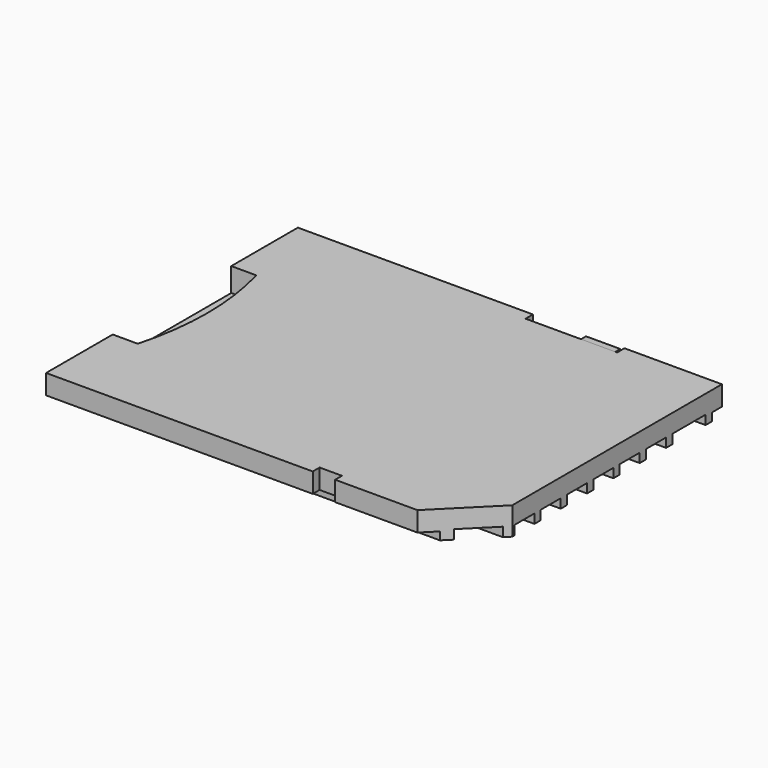
from build123d import *

# Parameters (mm, degrees)
SKETCH_W        = 32.2
SKETCH_H        = 23.9
PAD_DEPTH       = 2.1
CHAMFER_SIZE    = 4
SKETCH001_W     = 6.95
SKETCH001_H     = 0.7
POCKET_DEPTH    = 5
SKETCH002_W     = 32.2
SKETCH002_H     = 0.95
POCKET001_DEPTH = 0.6
SKETCH003_W     = 1.7
SKETCH003_H     = 0.65
POCKET002_DEPTH = 5
SKETCH004_W     = 5.75
SKETCH004_H     = 1.9
SKETCH004_W_2   = 7.9
SKETCH004_H_2   = 2.05
SKETCH004_H_3   = 3.15
POCKET003_DEPTH = 0.7
POCKET004_DEPTH = 1.8
SKETCH006_W     = 11.25
SKETCH006_H     = 0.85
POCKET005_DEPTH = 15
BOX_W           = 2.6
BOX_H           = 0.8
BOX_DEPTH       = 1.25
BOX001_W        = 5
BOX001_H        = 1.9
BOX001_DEPTH    = 0.2
ARRAY_Y_COUNT   = 6
ARRAY_Y_PITCH   = 2.5
BOX002_W        = 5
BOX002_H        = 2.1
BOX002_DEPTH    = 0.2
BOX003_W        = 5
BOX003_H        = 1.45
BOX003_DEPTH    = 0.2
BOX004_W        = 5
BOX004_H        = 1.45
BOX004_DEPTH    = 0.2


with BuildPart() as pocket005:
    # Sketch → Pad (new body)
    with BuildSketch(Plane.XY):
        Rectangle(SKETCH_W, SKETCH_H)
    extrude(amount=PAD_DEPTH)

    # Chamfer
    chamfer_edges = [pocket005.edges().sort_by_distance(p)[0] for p in [
        (16.1, -11.95, 1.05),
    ]]
    chamfer(chamfer_edges, length=CHAMFER_SIZE)

    # Sketch001 → Pocket (cut)
    with BuildSketch(Plane.XY.offset(2.1)):
        with Locations((5.225, 11.6)):
            Rectangle(SKETCH001_W, SKETCH001_H)
    extrude(amount=-POCKET_DEPTH, mode=Mode.SUBTRACT)

    # Sketch002 → Pocket001 (cut)
    with BuildSketch(Plane(origin=(0, 0, 0), x_dir=(1, 0, 0), z_dir=(0, 0, -1))):
        with Locations((0, 11.475)):
            Rectangle(SKETCH002_W, SKETCH002_H)
        with Locations((0, -11.475)):
            Rectangle(SKETCH002_W, SKETCH002_H)
    extrude(amount=-POCKET001_DEPTH, mode=Mode.SUBTRACT)

    # Sketch003 → Pocket002 (cut)
    with BuildSketch(Plane.XY.offset(2.1)):
        with Locations((5, -11.625)):
            Rectangle(SKETCH003_W, SKETCH003_H)
    extrude(amount=-POCKET002_DEPTH, mode=Mode.SUBTRACT)

    # Sketch004 → Pocket003 (cut)
    with BuildSketch(Plane(origin=(0, 0, 0), x_dir=(1, 0, 0), z_dir=(0, 0, -1))):
        with Locations((13.225, -5.7)):
            Rectangle(SKETCH004_W, SKETCH004_H)
        with Locations((13.225, -3.2)):
            Rectangle(SKETCH004_W, SKETCH004_H)
        with Locations((13.225, -0.7)):
            Rectangle(SKETCH004_W, SKETCH004_H)
        with Locations((13.225, 1.8)):
            Rectangle(SKETCH004_W, SKETCH004_H)
        with Locations((13.225, 4.3)):
            Rectangle(SKETCH004_W, SKETCH004_H)
        with Locations((13.225, 6.8)):
            Rectangle(SKETCH004_W, SKETCH004_H)
        with Locations((12.15, 9.375)):
            Rectangle(SKETCH004_W_2, SKETCH004_H_2)
        with Locations((13.225, -8.825)):
            Rectangle(SKETCH004_W, SKETCH004_H_3)
    extrude(amount=-POCKET003_DEPTH, mode=Mode.SUBTRACT)

    # Sketch005 → Pocket004 (cut)
    with BuildSketch(Plane.XY.offset(2.1)):
        with BuildLine():
            ThreePointArc((-14.2, -5.625), (-13.432631, 0), (-14.2, 5.625))
            Line((-16.1, 5.625), (-14.2, 5.625))
            Line((-16.1, 5.625), (-16.1, -5.625))
            Line((-16.1, -5.625), (-14.2, -5.625))
        make_face()
    extrude(amount=-POCKET004_DEPTH, mode=Mode.SUBTRACT)

    # Sketch006 → Pocket005 (cut)
    with BuildSketch(Plane(origin=(-16.1, 0, 0), x_dir=(0, -1, 0), z_dir=(-1, 0, 0))):
        with Locations((0, 0.725)):
            Rectangle(SKETCH006_W, SKETCH006_H)
    extrude(amount=-POCKET005_DEPTH, mode=Mode.SUBTRACT)


with BuildPart() as cube:
    # Box → Box (new body)
    with BuildSketch(Plane(origin=(5.9, 11, 0.8), x_dir=(1, 0, 0), z_dir=(0, 0, 1))):
        with Locations((1.3, 0.4)):
            Rectangle(BOX_W, BOX_H)
    extrude(amount=BOX_DEPTH)


with BuildPart() as array:
    # Box001 → Box001 (new body)
    with BuildSketch(Plane(origin=(10.35, -7.75, 0.68), x_dir=(1, 0, 0), z_dir=(0, 0, 1))):
        with Locations((2.5, 0.95)):
            Rectangle(BOX001_W, BOX001_H)
    extrude(amount=BOX001_DEPTH)

    # Array Y: Array ×6


with BuildPart() as array_1:
    add(array.part)
    with Locations(*[(0, i * ARRAY_Y_PITCH, 0) for i in range(1, ARRAY_Y_COUNT)]):
        add(array.part)


with BuildPart() as cube002:
    # Box002 → Box002 (new body)
    with BuildSketch(Plane(origin=(8.2, -10.4, 0.68), x_dir=(1, 0, 0), z_dir=(0, 0, 1))):
        with Locations((2.5, 1.05)):
            Rectangle(BOX002_W, BOX002_H)
    extrude(amount=BOX002_DEPTH)


with BuildPart() as cube003:
    # Box003 → Box003 (new body)
    with BuildSketch(Plane(origin=(10.35, 7.3, 0.68), x_dir=(1, 0, 0), z_dir=(0, 0, 1))):
        with Locations((2.5, 0.725)):
            Rectangle(BOX003_W, BOX003_H)
    extrude(amount=BOX003_DEPTH)


with BuildPart() as cube004:
    # Box004 → Box004 (new body)
    with BuildSketch(Plane(origin=(10.35, 8.95, 0.68), x_dir=(1, 0, 0), z_dir=(0, 0, 1))):
        with Locations((2.5, 0.725)):
            Rectangle(BOX004_W, BOX004_H)
    extrude(amount=BOX004_DEPTH)


solid = Compound([pocket005.part, cube.part, array_1.part, cube002.part, cube003.part, cube004.part])
